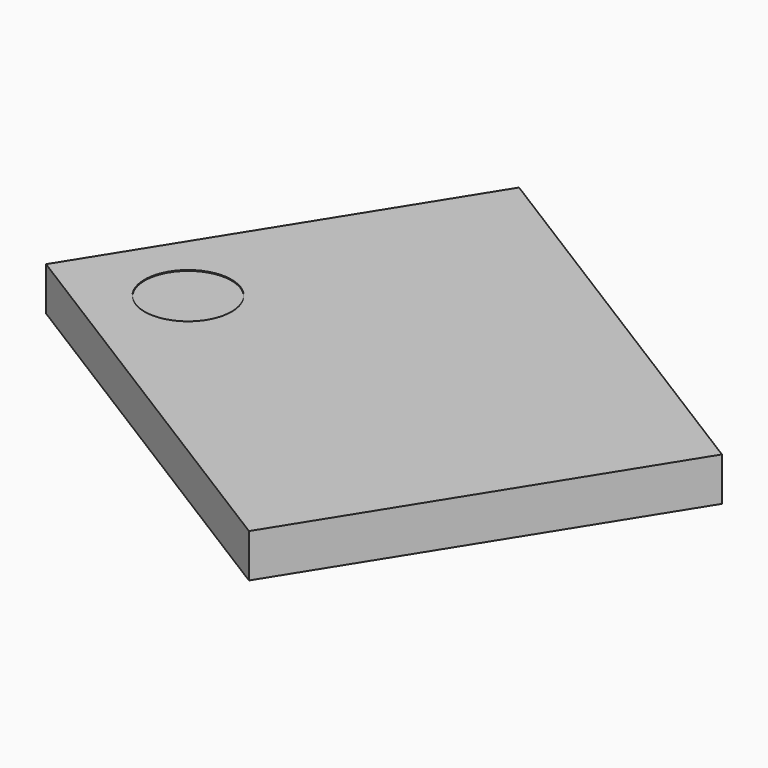
from build123d import *

# Parameters (mm, degrees)
CYLINDER086_R          = 0.5
CYLINDER086_DEPTH      = 0.01
BOX185_W               = 4.5
BOX185_H               = 5.5
BOX185_DEPTH           = 0.5
CUT093_PLACEMENT_ANGLE = 58


with BuildPart() as cylinder086:
    # Cylinder086 → Cylinder086 (new body)
    with BuildSketch(Plane(origin=(1, 4.5, 0.49), x_dir=(1, 0, 0), z_dir=(0, 0, 1))):
        Circle(CYLINDER086_R)
    extrude(amount=CYLINDER086_DEPTH)


with BuildPart() as obj1:
    # Box185 → Box185 (new body)
    with BuildSketch(Plane.XY):
        with Locations((2.25, 2.75)):
            Rectangle(BOX185_W, BOX185_H)
    extrude(amount=BOX185_DEPTH)

    # Cut093: cut Cylinder086
    add(cylinder086.part, mode=Mode.SUBTRACT)


with BuildPart() as obj1_1:
    # Cut093 placement: moved
    add(obj1.part.moved(Location((10.442481, 16.08879, 2.19))).rotate(Axis((10.442481, 16.08879, 2.19), (0, 0, 1)), CUT093_PLACEMENT_ANGLE))


solid = obj1_1.part
